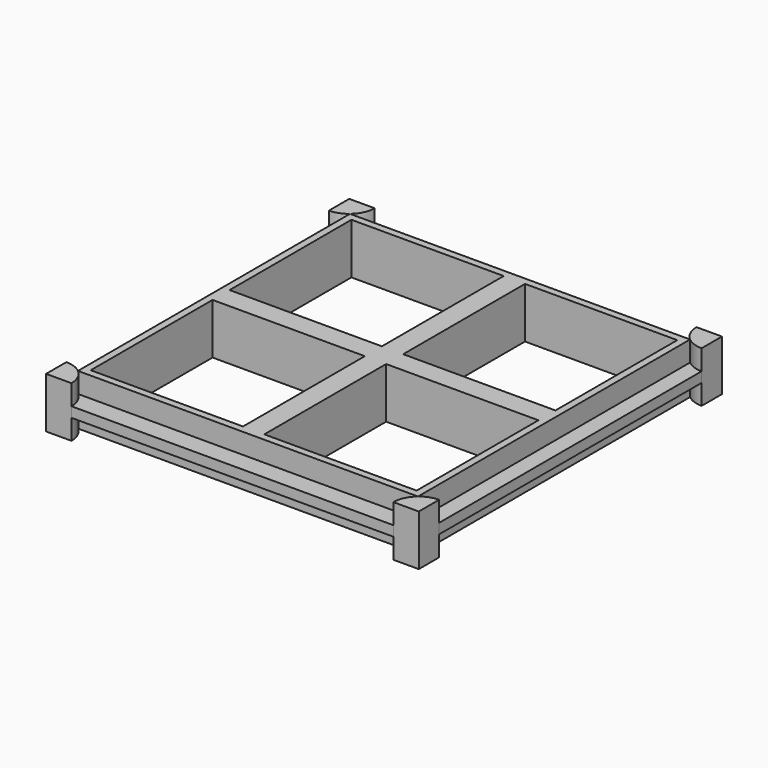
from build123d import *

# Parameters (mm, degrees)
F1_DEPTH = 6.35
F0_W     = 85.09
F0_H     = 85.09
F0_W_2   = 38.1
F0_H_2   = 38.1
F2_DEPTH = 6.35
F3_DEPTH = 1.27


with BuildPart() as f1:
    # F0 (on Top) → F1 (new body, symmetric)
    with BuildSketch(Plane.XY):
        with BuildLine():
            ThreePointArc((40.2767013215, 47.4093822138), (40.8716468738, 44.7257562518), (42.545, 42.545))
            ThreePointArc((42.545, 42.545), (44.4548734114, 41.4423340718), (46.6267013215, 41.0593822138))
            Line((46.6267013215, 41.0593822138), (46.6267013215, 47.4093822138))
            Line((46.6267013215, 47.4093822138), (40.2767013215, 47.4093822138))
        make_face()
    extrude(amount=F1_DEPTH, both=True)


with BuildPart() as f1b:
    # F0 (on Top) → F1, piece 2 (new body, symmetric)
    with BuildSketch(Plane.XY):
        with BuildLine():
            ThreePointArc((46.6267013215, -41.0593822138), (44.4548734114, -41.4423340718), (42.545, -42.545))
            ThreePointArc((42.545, -42.545), (40.8716468738, -44.7257562518), (40.2767013215, -47.4093822138))
            Line((40.2767013215, -47.4093822138), (46.6267013215, -47.4093822138))
            Line((46.6267013215, -47.4093822138), (46.6267013215, -41.0593822138))
        make_face()
    extrude(amount=F1_DEPTH, both=True)


with BuildPart() as f1c:
    # F0 (on Top) → F1, piece 3 (new body, symmetric)
    with BuildSketch(Plane.XY):
        with BuildLine():
            ThreePointArc((-46.6267013215, 41.0593822138), (-44.4548734114, 41.4423340718), (-42.545, 42.545))
            ThreePointArc((-42.545, 42.545), (-40.8716468738, 44.7257562518), (-40.2767013215, 47.4093822138))
            Line((-40.2767013215, 47.4093822138), (-46.6267013215, 47.4093822138))
            Line((-46.6267013215, 47.4093822138), (-46.6267013215, 41.0593822138))
        make_face()
    extrude(amount=F1_DEPTH, both=True)


with BuildPart() as f1d:
    # F0 (on Top) → F1, piece 4 (new body, symmetric)
    with BuildSketch(Plane.XY):
        with BuildLine():
            ThreePointArc((-40.2767013215, -47.4093822138), (-40.8716468738, -44.7257562518), (-42.545, -42.545))
            ThreePointArc((-42.545, -42.545), (-44.4548734114, -41.4423340718), (-46.6267013215, -41.0593822138))
            Line((-46.6267013215, -41.0593822138), (-46.6267013215, -47.4093822138))
            Line((-46.6267013215, -47.4093822138), (-40.2767013215, -47.4093822138))
        make_face()
    extrude(amount=F1_DEPTH, both=True)


with BuildPart() as f2:
    # F0 (on Top) → F2 (new body, symmetric)
    with BuildSketch(Plane.XY):
        Rectangle(F0_W, F0_H)
        with Locations((-21.717, -21.717)):
            Rectangle(F0_W_2, F0_H_2, mode=Mode.SUBTRACT)
        with Locations((21.717, -21.717)):
            Rectangle(F0_W_2, F0_H_2, mode=Mode.SUBTRACT)
        with Locations((-21.717, 21.717)):
            Rectangle(F0_W_2, F0_H_2, mode=Mode.SUBTRACT)
        with Locations((21.717, 21.717)):
            Rectangle(F0_W_2, F0_H_2, mode=Mode.SUBTRACT)
    extrude(amount=F2_DEPTH, both=True)


with BuildPart() as f3:
    # F0 (on Top) → F3 (new body, symmetric)
    with BuildSketch(Plane.XY):
        with BuildLine():
            Line((-42.545, -42.545), (-42.545, 42.545))
            ThreePointArc((-42.545, 42.545), (-44.4548734114, 41.4423340718), (-46.6267013215, 41.0593822138))
            Line((-46.6267013215, 41.0593822138), (-46.6267013215, -41.0593822138))
            ThreePointArc((-46.6267013215, -41.0593822138), (-44.4548734114, -41.4423340718), (-42.545, -42.545))
        make_face()
    extrude(amount=F3_DEPTH, both=True)


with BuildPart() as f3b:
    # F0 (on Top) → F3, piece 2 (new body, symmetric)
    with BuildSketch(Plane.XY):
        with BuildLine():
            ThreePointArc((-40.2767013215, 47.4093822138), (-40.8716468738, 44.7257562518), (-42.545, 42.545))
            Line((-42.545, 42.545), (42.545, 42.545))
            ThreePointArc((42.545, 42.545), (40.8716468738, 44.7257562518), (40.2767013215, 47.4093822138))
            Line((40.2767013215, 47.4093822138), (-40.2767013215, 47.4093822138))
        make_face()
    extrude(amount=F3_DEPTH, both=True)


with BuildPart() as f3c:
    # F0 (on Top) → F3, piece 3 (new body, symmetric)
    with BuildSketch(Plane.XY):
        with BuildLine():
            ThreePointArc((46.6267013215, 41.0593822138), (44.4548734114, 41.4423340718), (42.545, 42.545))
            Line((42.545, 42.545), (42.545, -42.545))
            ThreePointArc((42.545, -42.545), (44.4548734114, -41.4423340718), (46.6267013215, -41.0593822138))
            Line((46.6267013215, -41.0593822138), (46.6267013215, 41.0593822138))
        make_face()
    extrude(amount=F3_DEPTH, both=True)


with BuildPart() as f3d:
    # F0 (on Top) → F3, piece 4 (new body, symmetric)
    with BuildSketch(Plane.XY):
        with BuildLine():
            Line((42.545, -42.545), (-42.545, -42.545))
            ThreePointArc((-42.545, -42.545), (-40.8716468738, -44.7257562518), (-40.2767013215, -47.4093822138))
            Line((-40.2767013215, -47.4093822138), (40.2767013215, -47.4093822138))
            ThreePointArc((40.2767013215, -47.4093822138), (40.8716468738, -44.7257562518), (42.545, -42.545))
        make_face()
    extrude(amount=F3_DEPTH, both=True)


solid = Compound([f1.part, f1b.part, f1c.part, f1d.part, f2.part, f3.part, f3b.part, f3c.part, f3d.part])
